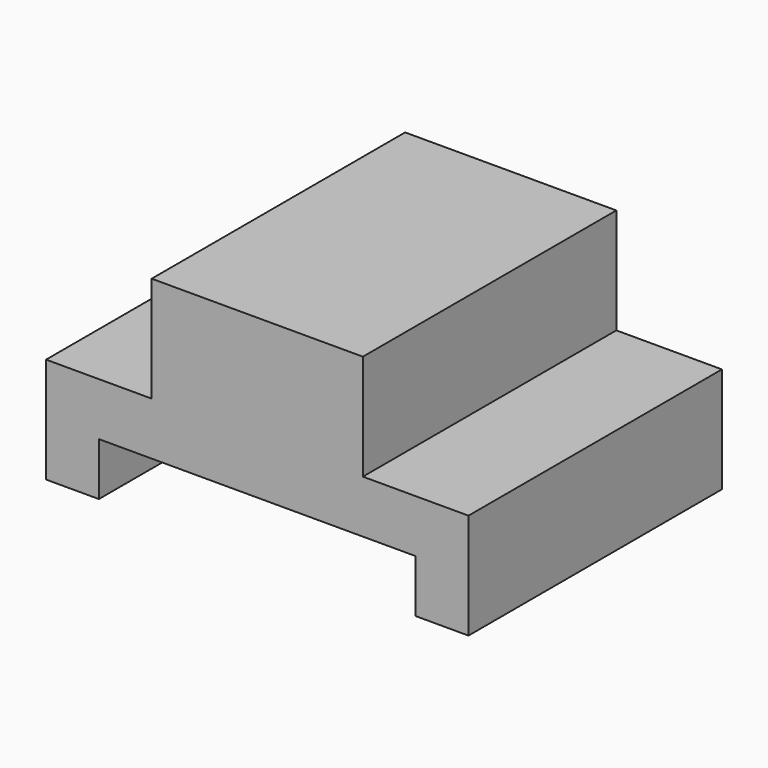
from build123d import *

# Parameters (mm, degrees)
F0_W     = 10
F0_H     = 10
F1_DEPTH = 60


with BuildPart() as f1:
    # F0 (on Front) → F1 (new body)
    with BuildSketch(Plane.XZ):
        Polygon((0, 10), (0, 0), (40, 0), (40, 10), (40, 30), (0, 30), align=None)
        Polygon((-10, 0), (0, 0), (0, 10), (-20, 10), (-20, 0), align=None)
        Polygon((40, 10), (40, 0), (50, 0), (60, 0), (60, 10), align=None)
        with Locations((-15, -5)):
            Rectangle(F0_W, F0_H)
        with Locations((55, -5)):
            Rectangle(F0_W, F0_H)
    extrude(amount=F1_DEPTH)


solid = f1.part
